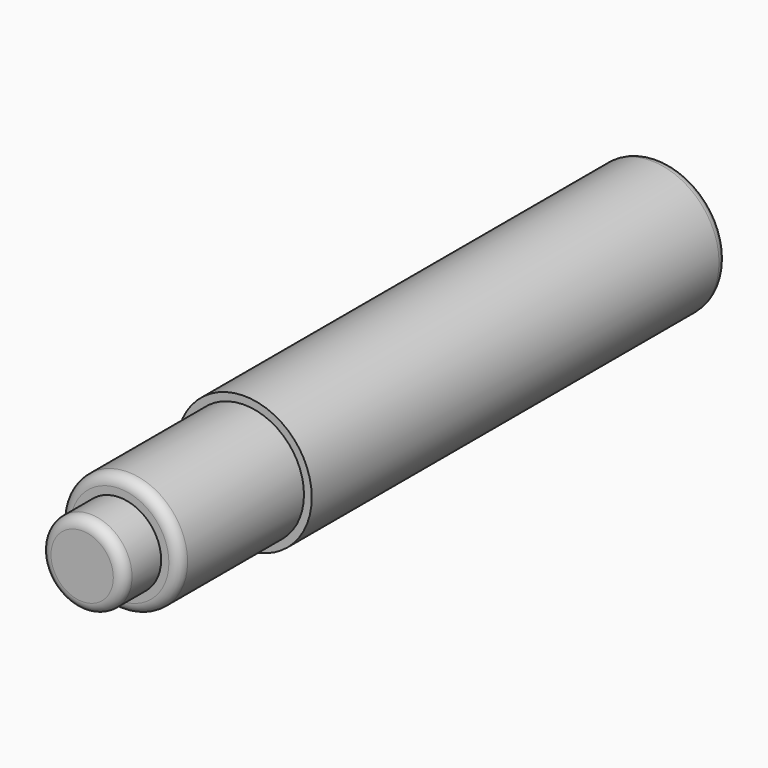
from build123d import *

# Parameters (mm, degrees)
F0_R     = 6.5
F1_DEPTH = 50
F2_R     = 5.75
F3_DEPTH = 15
F4_R     = 4
F5_DEPTH = 4.5
F6_R     = 1


with BuildPart() as f1:
    # F0 (on Front) → F1 (new body)
    with BuildSketch(Plane.XZ):
        Circle(F0_R)
        Circle(F0_R)
    extrude(amount=F1_DEPTH)

    # F2 (on face) → F3 (join)
    with BuildSketch(Plane.XZ.offset(50)):
        Circle(F2_R)
    extrude(amount=F3_DEPTH)

    # F4 (on face) → F5 (join)
    with BuildSketch(Plane.XZ.offset(65)):
        Circle(F4_R)
    extrude(amount=F5_DEPTH)

    # F6
    f6_edges = [f1.edges().sort_by_distance(p)[0] for p in [
        (-4, -69.5, 0),
        (-5.75, -65, 0),
        (-6.5, 0, 0),
    ]]
    fillet(f6_edges, radius=F6_R)


solid = f1.part
